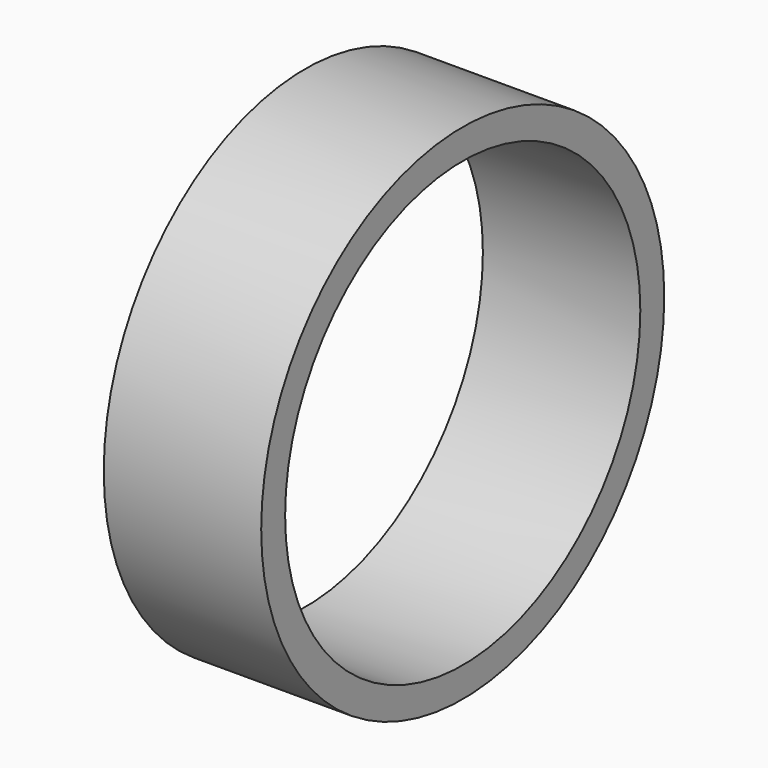
from build123d import *

# Parameters (mm, degrees)
F0_W          = 50
F0_H          = 9.5
F1_ANGLE_BACK = 90
F1_ANGLE      = 180


with BuildPart() as f1:
    # F0 (on Front) → F1 (revolve)
    with BuildSketch(Plane.XZ, mode=Mode.PRIVATE) as f1_sk:
        with Locations((0, 75.25)):
            Rectangle(F0_W, F0_H)
        with Locations((0, -75.25)):
            Rectangle(F0_W, F0_H)
    revolve(f1_sk.sketch.rotate(Axis((100, 0, 0), (1, 0, 0)), -F1_ANGLE_BACK), axis=Axis((100, 0, 0), (1, 0, 0)), revolution_arc=F1_ANGLE)


solid = f1.part
